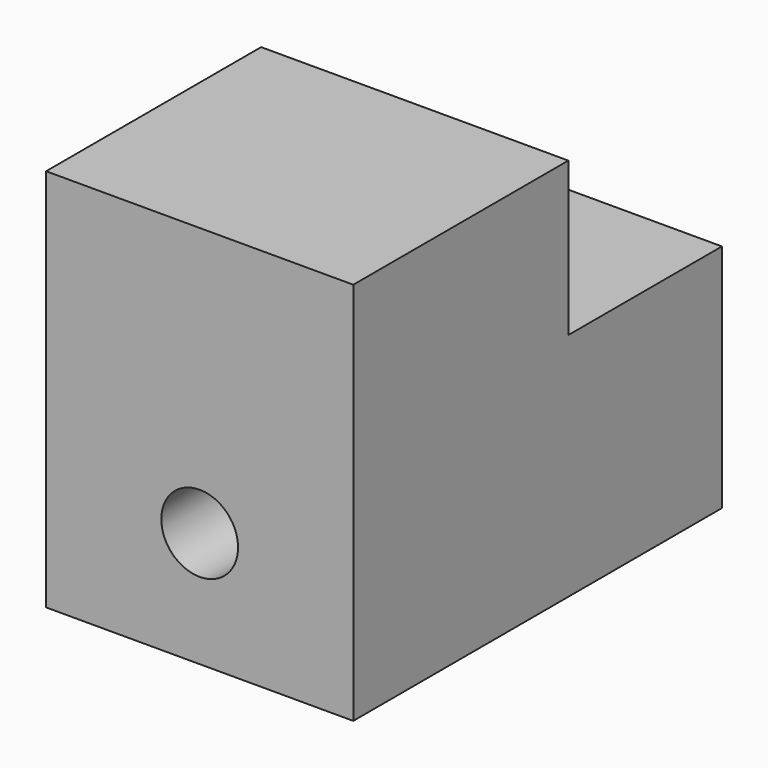
from build123d import *

# Parameters (mm, degrees)
F0_W     = 101.6
F0_H     = 152.4
F1_DEPTH = 76.2
F2_W     = 101.6
F2_H     = 88.9
F3_DEPTH = 50.8
F5_D     = 25.4


with BuildPart() as f1:
    # F0 (on Top) → F1 (new body)
    with BuildSketch(Plane.XY):
        with Locations((-16.141507, 27.559112)):
            Rectangle(F0_W, F0_H)
    extrude(amount=F1_DEPTH)

    # F2 (on face) → F3 (join)
    with BuildSketch(Plane.XY.offset(76.2)):
        with Locations((-16.141507, -4.190888)):
            Rectangle(F2_W, F2_H)
    extrude(amount=F3_DEPTH)

    # F5 (through all)
    with Locations(Plane.XZ.offset(48.640888)):
        with Locations((-16.141507, 38.1)):
            Hole(F5_D / 2)


solid = f1.part
